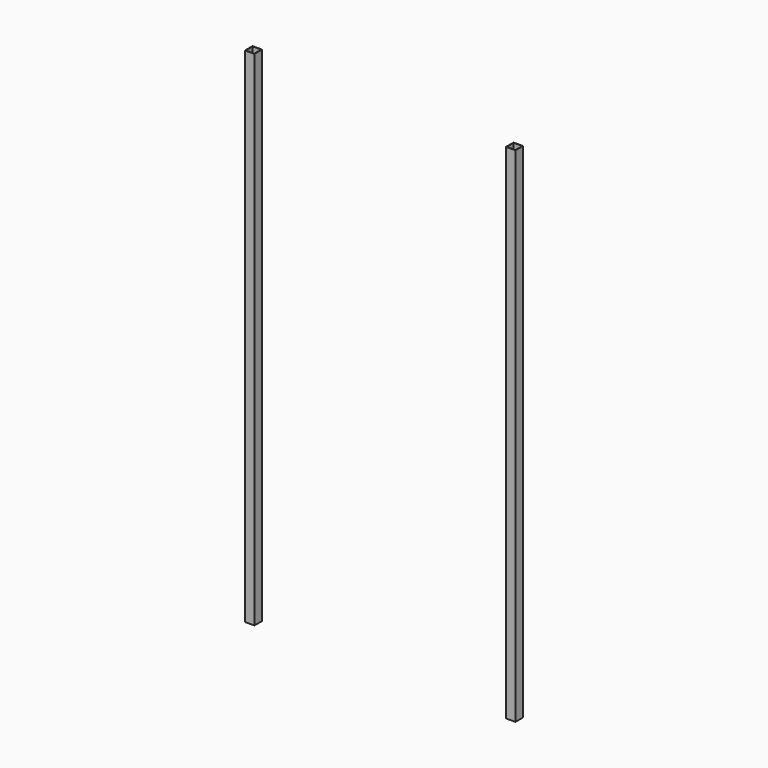
from build123d import *

# Parameters (mm, degrees)
F1_W     = 38.1
F1_H     = 38.1
F1_W_2   = 34.925
F1_H_2   = 34.925
F2_DEPTH = 2032


with BuildPart() as f2:
    # F1 (on Top) → F2 (new body, through all)
    with BuildSketch(Plane.XY):
        with Locations((-19.05, -19.05)):
            Rectangle(F1_W, F1_H)
        with Locations((-19.05, -19.05)):
            Rectangle(F1_W_2, F1_H_2, mode=Mode.SUBTRACT)
        with Locations((1035.05, -19.05)):
            Rectangle(F1_W, F1_H)
        with Locations((1035.05, -19.05)):
            Rectangle(F1_W_2, F1_H_2, mode=Mode.SUBTRACT)
    extrude(amount=F2_DEPTH)


solid = f2.part
